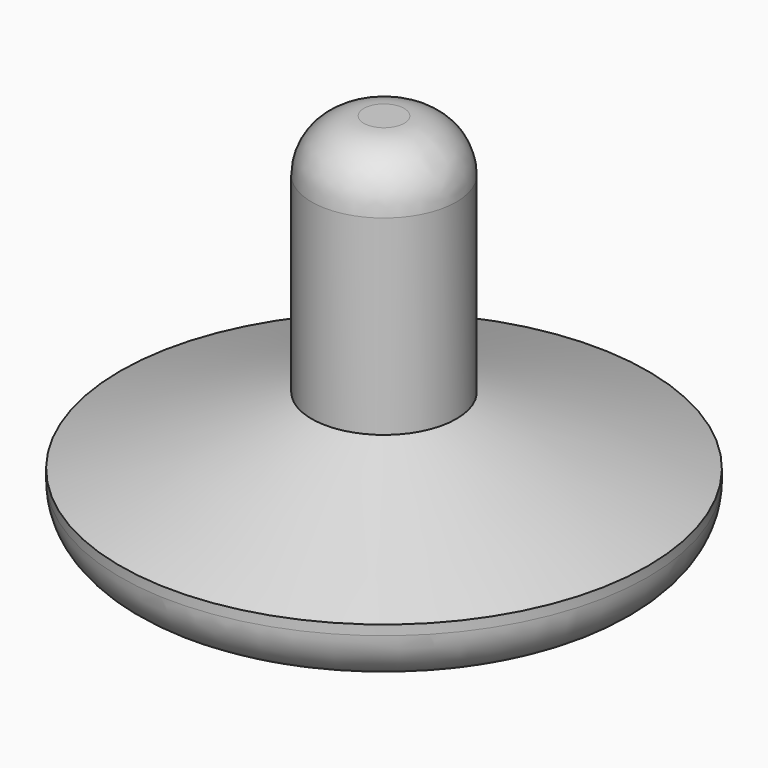
from build123d import *


with BuildPart() as f1:
    # F0 (on Front) → F1 (revolve)
    with BuildSketch(Plane.XZ):
        with BuildLine():
            Line((0, 54.230746), (0, 0))
            Line((0, 0), (4.58643, 0))
            ThreePointArc((4.58643, 0), (8.098913, 1.059918), (10.438815, 3.885839))
            Line((10.438815, 3.885839), (12.575245, 8.959862))
            Line((12.575245, 8.959862), (25.716878, 8.959862))
            ThreePointArc((25.716878, 8.959862), (30.207006, 10.819734), (32.066878, 15.309862))
            Line((32.066878, 15.309862), (32.066878, 16.50501))
            Line((32.066878, 16.50501), (8.802673, 24.678919))
            Line((8.802673, 24.678919), (8.802673, 47.880746))
            ThreePointArc((8.802673, 47.880746), (6.942801, 52.370874), (2.452673, 54.230746))
            Line((2.452673, 54.230746), (0, 54.230746))
        make_face()
    revolve(axis=Axis((0, 0, 27.115373), (0, 0, -1)))


solid = f1.part
